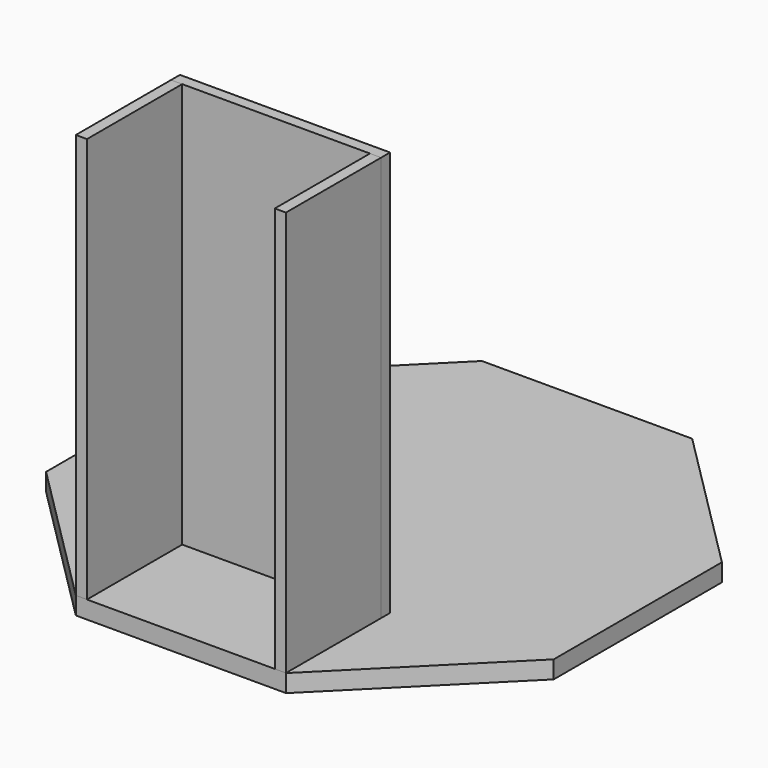
from build123d import *

# Parameters (mm, degrees)
F1_DEPTH = 30.1625
F2_W     = 19.05
F2_H     = 203.2
F3_DEPTH = 692.15
F4_W     = 358.775
F4_H     = 19.05
F5_DEPTH = 692.15


with BuildPart() as f1:
    # F0 (on Top) → F1 (new body)
    with BuildSketch(Plane.XY):
        Polygon((-179.51498, -433.3875), (179.51498, -433.3875), (433.3875, -179.51498), (433.3875, 179.51498), (179.51498, 433.3875), (-179.51498, 433.3875), (-433.3875, 179.51498), (-433.3875, -179.51498), align=None)
    extrude(amount=F1_DEPTH)


with BuildPart() as f3:
    # F2 (on face) → F3 (new body)
    with BuildSketch(Plane.XY.offset(30.1625)):
        with Locations((-169.98998, -331.7875)):
            Rectangle(F2_W, F2_H)
    extrude(amount=F3_DEPTH)


with BuildPart() as f5:
    # F4 (on face) → F5 (new body)
    with BuildSketch(Plane.XY.offset(30.1625)):
        with Locations((-0.12748, -220.6625)):
            Rectangle(F4_W, F4_H)
    extrude(amount=F5_DEPTH)


with BuildPart() as f6_1:
    # F6: copy of F3
    add(f3.part.moved(Location((339.725, 0, 0))))


solid = Compound([f1.part, f3.part, f5.part, f6_1.part])
